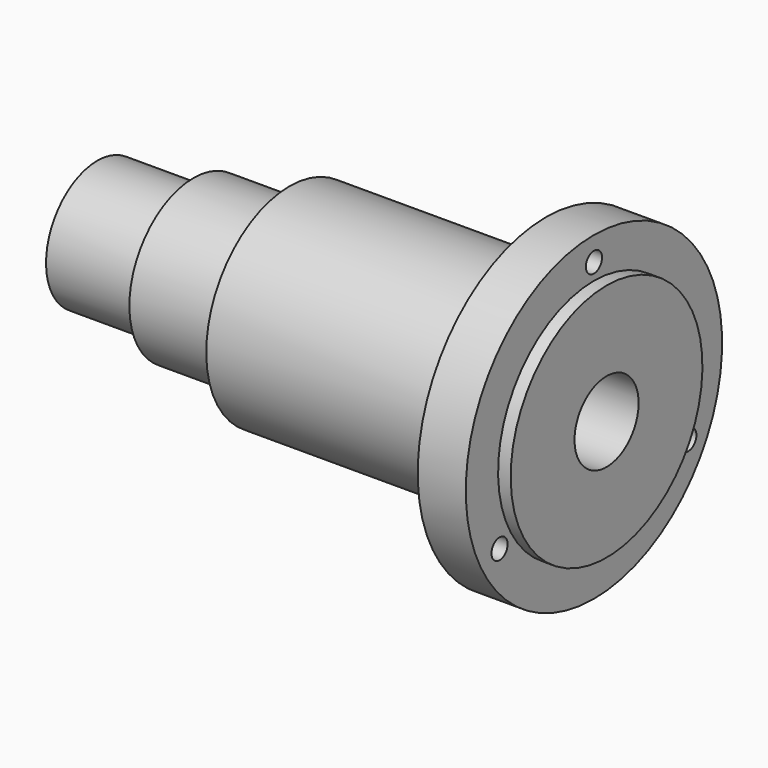
from build123d import *

# Parameters (mm, degrees)
F2_R     = 4
F3_DEPTH = 25.4
F4_R     = 6.75
F4_R_2   = 4
F5_DEPTH = 8


with BuildPart() as f1:
    # F0 (on Front) → F1 (revolve)
    with BuildSketch(Plane.XZ):
        Polygon((-47.183853, 15.875), (10.1137, 15.875), (130.7637, 15.875), (135.7675, 15.875), (135.7675, 47.498), (130.7637, 47.498), (130.7637, 63.5), (111.7137, 63.5), (111.7137, 41.275), (10.1137, 41.275), (10.1137, 31.75), (-27.9863, 31.75), (-27.9863, 25.4), (-66.0863, 25.4), (-66.0863, 15.875), align=None)
    revolve(axis=Axis((0.887014, 0, 0), (1, 0, 0)))

    # F2 (on face) → F3 (cut)
    with BuildSketch(Plane.YZ.offset(130.7637)):
        with Locations((0, 54.0004)):
            Circle(F2_R)
        with Locations((46.765718, -27.0002)):
            Circle(F2_R)
        with Locations((-46.765718, -27.0002)):
            Circle(F2_R)
    extrude(amount=-F3_DEPTH, mode=Mode.SUBTRACT)

    # F4 (on face) → F5 (cut)
    with BuildSketch(Plane(origin=(111.7137, 0, 0), x_dir=(0, -1, 0), z_dir=(-1, 0, 0))):
        with Locations((0, 54.0004)):
            Circle(F4_R)
        with Locations((0, 54.0004)):
            Circle(F4_R_2, mode=Mode.SUBTRACT)
        with Locations((46.765718, -27.0002)):
            Circle(F4_R)
        with Locations((46.765718, -27.0002)):
            Circle(F4_R_2, mode=Mode.SUBTRACT)
        with Locations((-46.765718, -27.0002)):
            Circle(F4_R)
        with Locations((-46.765718, -27.0002)):
            Circle(F4_R_2, mode=Mode.SUBTRACT)
    extrude(amount=-F5_DEPTH, mode=Mode.SUBTRACT)


solid = f1.part
